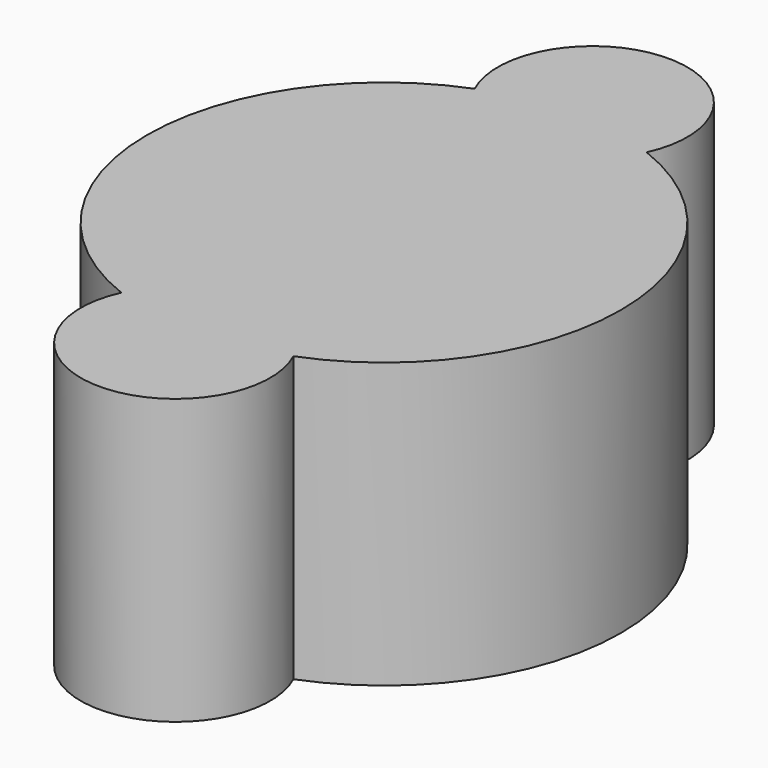
from build123d import *

# Parameters (mm, degrees)
F1_DEPTH = 19.05
F2_R     = 9.525
F3_DEPTH = 15.875


with BuildPart() as f1:
    # F0 (on Top) → F1 (new body)
    with BuildSketch(Plane.XY):
        with BuildLine():
            ThreePointArc((-5.761441, -14.792614), (0, -23.8125), (5.761441, -14.792614))
            ThreePointArc((5.761441, -14.792614), (15.875, 0), (5.761441, 14.792614))
            ThreePointArc((5.761441, 14.792614), (0, 23.8125), (-5.761441, 14.792614))
            ThreePointArc((-5.761441, 14.792614), (-15.875, 0), (-5.761441, -14.792614))
        make_face()
    extrude(amount=F1_DEPTH)

    # F2 (on face) → F3 (cut)
    with BuildSketch(Plane(origin=(0, 0, 0), x_dir=(1, 0, 0), z_dir=(0, 0, -1))):
        Circle(F2_R)
    extrude(amount=-F3_DEPTH, mode=Mode.SUBTRACT)


solid = f1.part
